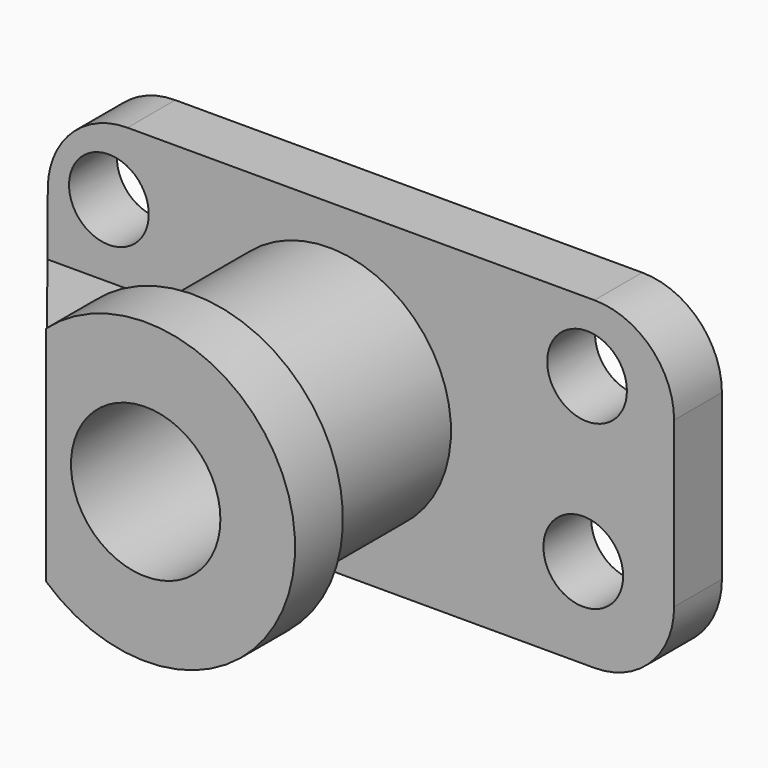
from build123d import *

# Parameters (mm, degrees)
F1_DEPTH  = 304.8
F2_R      = 203.2
F3_DEPTH  = 304.801
F4_R      = 622.3
F5_DEPTH  = 863.6
F6_R      = 762
F6_R_2    = 622.3
F7_DEPTH  = 304.8
F8_R      = 381
F9_DEPTH  = 1473.201
F11_DEPTH = 1168.4
F12_W     = 1168.4
F12_H     = 203.2
F13_DEPTH = 927.608
F15_DEPTH = 203.2
F17_DEPTH = 304.801


with BuildPart() as f1:
    # F0 (on Front) → F1 (new body)
    with BuildSketch(Plane.XZ):
        Polygon((1597.8033866405, 978.6918288183), (-1594.1745716925, 978.6918288183), (-1602.5966133595, -672.3081711817), (1597.8033866405, -672.3081711817), align=None)
    extrude(amount=F1_DEPTH)

    # F2 (on face) → F3 (cut, through all)
    with BuildSketch(Plane.XZ.offset(304.8)):
        with Locations((-1284.5199181577, 624.9700057066)):
            Circle(F2_R)
        with Locations((-1303.8630485535, -213.2299942934)):
            Circle(F2_R)
        with Locations((1134.5369514465, -213.2299942934)):
            Circle(F2_R)
        with Locations((1153.8800818423, 624.9700057066)):
            Circle(F2_R)
    extrude(amount=-F3_DEPTH, mode=Mode.SUBTRACT)

    # F4 (on face) → F5 (join)
    with BuildSketch(Plane.XZ.offset(304.8)):
        with Locations((-162.1708273888, 153.1918288183)):
            Circle(F4_R)
    extrude(amount=F5_DEPTH)

    # F6 (on face) → F7 (join)
    with BuildSketch(Plane.XZ.offset(1168.4)):
        with Locations((-162.1708273888, 153.1918288183)):
            Circle(F6_R)
        with Locations((-162.1708273888, 153.1918288183)):
            Circle(F6_R_2, mode=Mode.SUBTRACT)
        with Locations((-162.1708273888, 153.1918288183)):
            Circle(F6_R_2)
    extrude(amount=F7_DEPTH)

    # F8 (on face) → F9 (cut, through all)
    with BuildSketch(Plane.XZ.offset(1473.2)):
        with Locations((-162.1708273888, 153.1918288183)):
            Circle(F8_R)
    extrude(amount=-F9_DEPTH, mode=Mode.SUBTRACT)

    # F10 (on face) → F11 (cut, through all)
    with BuildSketch(Plane.XZ.offset(1473.2)):
        with BuildLine():
            Line((-670.1708273888, -414.7694374667), (-670.1708273888, 721.1530951032))
            ThreePointArc((-670.1708273888, 721.1530951032), (-924.1708273888, 153.1918288183), (-670.1708273888, -414.7694374667))
        make_face()
    extrude(amount=-F11_DEPTH, mode=Mode.SUBTRACT)

    # F12 (on face) → F13 (join)
    with BuildSketch(Plane(origin=(-670.1708273888, 0, 0), x_dir=(0, -1, 0), z_dir=(-1, 0, 0))):
        with Locations((889, 153.1918288183)):
            Rectangle(F12_W, F12_H)
    extrude(amount=F13_DEPTH)

    # F14 (on face) → F15 (cut, through all)
    with BuildSketch(Plane.XY.offset(254.7918288183)):
        Polygon((-1597.7788273888, -1473.2), (-670.1708273888, -1473.2), (-1597.7788273888, -304.8), align=None)
    extrude(amount=-F15_DEPTH, mode=Mode.SUBTRACT)

    # F16 (on face) → F17 (cut, through all)
    with BuildSketch(Plane.XZ.offset(304.8)):
        with BuildLine():
            ThreePointArc((1597.8033866405, -265.9081711817), (1478.7715825148, -553.276367056), (1191.4033866405, -672.3081711817))
            Line((1191.4033866405, -672.3081711817), (1597.8033866405, -672.3081711817))
            Line((1597.8033866405, -672.3081711817), (1597.8033866405, -265.9081711817))
        make_face()
        with BuildLine():
            ThreePointArc((1191.4033866405, 978.6918288183), (1478.7715825148, 859.6600246925), (1597.8033866405, 572.2918288183))
            Line((1597.8033866405, 572.2918288183), (1597.8033866405, 978.6918288183))
            Line((1597.8033866405, 978.6918288183), (1191.4033866405, 978.6918288183))
        make_face()
        with BuildLine():
            Line((-1602.5966133595, -672.3081711817), (-1194.1182077752, -672.3081711817))
            ThreePointArc((-1194.1182077752, -672.3081711817), (-1482.218419657, -552.5424816082), (-1600.5129202086, -263.8350802058))
            Line((-1600.5129202086, -263.8350802057), (-1602.5966133595, -672.3081711817))
        make_face()
        with BuildLine():
            Line((-1594.1745716925, 978.6918288183), (-1596.2371144392, 574.3649197942))
            ThreePointArc((-1596.2371144392, 574.3649197942), (-1476.4767124324, 860.3920407), (-1189.8424020058, 978.6918288183))
            Line((-1189.8424020058, 978.6918288183), (-1594.1745716925, 978.6918288183))
        make_face()
    extrude(amount=-F17_DEPTH, mode=Mode.SUBTRACT)


solid = f1.part
